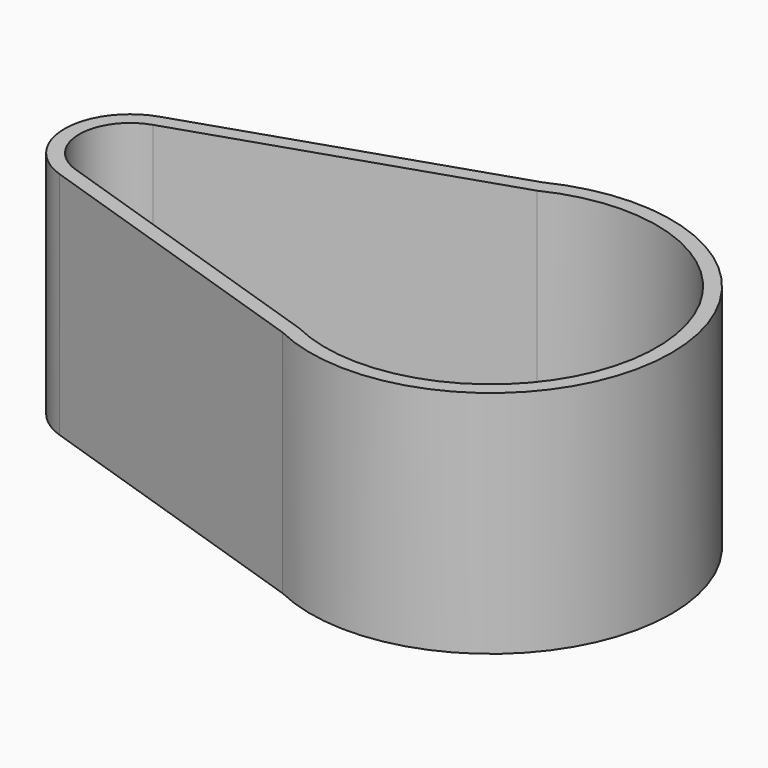
from build123d import *

# Parameters (mm, degrees)
F2_DEPTH = 14
F3_DEPTH = 14


with BuildPart() as f2:
    # F0 (on Top) → F2 (new body)
    with BuildSketch(Plane.XY):
        with BuildLine():
            Line((-23.255597, -3.797825), (-4.78733, -9.903609))
            ThreePointArc((-4.78733, -9.903609), (11, 0), (-4.78733, 9.903609))
            Line((-4.78733, 9.903609), (-23.255597, 3.797825))
            ThreePointArc((-23.255597, 3.797825), (-26, 0), (-23.255597, -3.797825))
        make_face()
    extrude(amount=F2_DEPTH)

    # F1 (on face) → F3 (cut)
    with BuildSketch(Plane.XY):
        with BuildLine():
            ThreePointArc((-4.447579, -9.068023), (10.1, 0), (-4.447579, 9.068023))
            Line((-4.447579, 9.068023), (-22.973088, 2.943314))
            ThreePointArc((-22.973088, 2.943314), (-25.1, 0), (-22.973088, -2.943314))
            Line((-22.973088, -2.943314), (-4.447579, -9.068023))
        make_face()
    extrude(amount=F3_DEPTH, mode=Mode.SUBTRACT)


solid = f2.part
